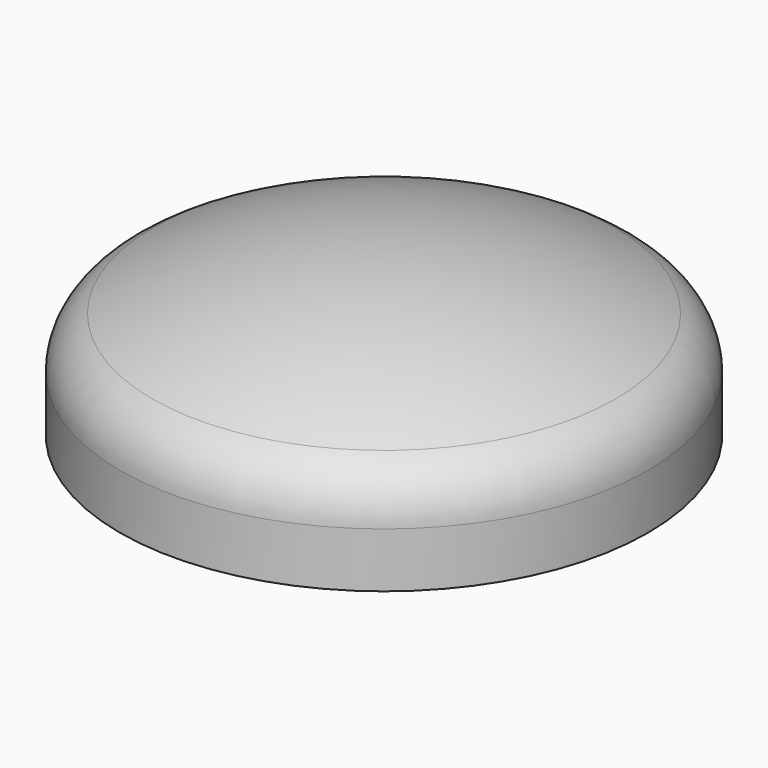
from build123d import *


with BuildPart() as f1:
    # F0 (on Front) → F1 (revolve)
    with BuildSketch(Plane.XZ):
        with BuildLine():
            ThreePointArc((419.117647, 189.742037), (459.887469, 152.859414), (475, 100))
            Line((475, 100), (475, 0))
            Line((475, 0), (481, 0))
            Line((481, 0), (481, 100))
            ThreePointArc((481, 100), (464.980717, 156.030979), (421.764706, 195.126559))
            ThreePointArc((421.764706, 195.126559), (216.507755, 268.353462), (0, 293.192685))
            Line((0, 293.192685), (0, 287.192685))
            ThreePointArc((0, 287.192685), (215.14892, 262.509356), (419.117647, 189.742037))
        make_face()
    revolve(axis=Axis((0, 0, 568.160451), (0, 0, 1)))


solid = f1.part
